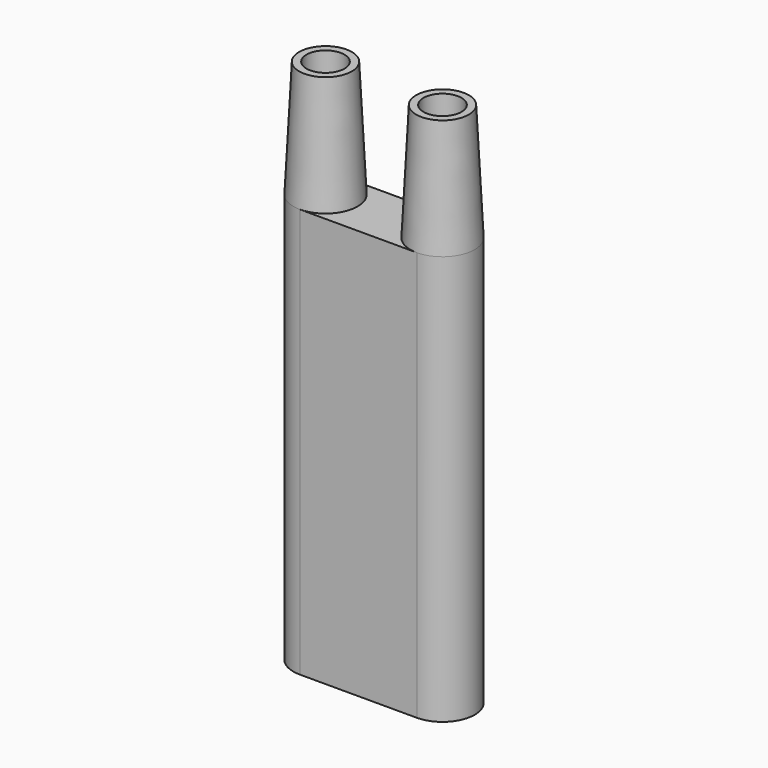
from build123d import *

# Parameters (mm, degrees)
F3_D      = 3.25
F6_R      = 1.625
F8_R      = 1.625
F9_DEPTH  = 15
F11_DEPTH = 15
F13_DEPTH = 20


with BuildPart() as f1:
    # F0 (on Front) → F1 (revolve)
    with BuildSketch(Plane.XZ):
        Polygon((0, 10), (0, 0), (2.75, 0), (2.25, 10), align=None)
    revolve(axis=Axis((0, 0, 5), (0, 0, -1)))

    # F3 (through all)
    with Locations(Plane.XY.offset(10)):
        with Locations((0, 0)):
            Hole(F3_D / 2)


with BuildPart() as f4_1:
    # F4: copy of F1
    add(f1.part.moved(Location((10, 0, 0))))


with BuildPart() as f7:
    # F7: sweep along a path in F5
    with BuildLine(Plane.XZ) as f7_path:
        ThreePointArc((10, 0), (7.0710678119, -7.0710678119), (0, -10))
    # F6 (on face) → F7 (sweep)
    with BuildSketch(Plane(origin=(0, 0, 0), x_dir=(1, 0, 0), z_dir=(0, 0, -1))):
        with Locations((10, 0)):
            Circle(F6_R)
    sweep(path=f7_path.line)

    # F8 (on face) → F9 (join)
    with BuildSketch(Plane(origin=(0, 0, 0), x_dir=(1, 0, 0), z_dir=(0, 0, -1))):
        Circle(F8_R)
    extrude(amount=F9_DEPTH)


with BuildPart() as f11:
    # F10 (on Top) → F11 (new body)
    with BuildSketch(Plane.XY):
        with BuildLine():
            Line((10, 2.75), (0, 2.75))
            ThreePointArc((0, 2.75), (-2.75, 0), (0, -2.75))
            Line((0, -2.75), (10, -2.75))
            ThreePointArc((10, -2.75), (12.75, 0), (10, 2.75))
        make_face()
    extrude(amount=-F11_DEPTH)

    # F12: cut F7
    add(f7.part, mode=Mode.SUBTRACT)


with BuildPart() as f1_1:
    add(f1.part)

    # F13 (add): a face of the model
    f13_faces = [f11.part.faces().sort_by_distance(p)[0] for p in [
        (5.5886652474, 0, -15),
    ]]

    add(f4_1.part)  # F13 merges F4_1

    add(f11.part)  # F13 merges F11
    extrude(f13_faces, amount=F13_DEPTH)


solid = f1_1.part
